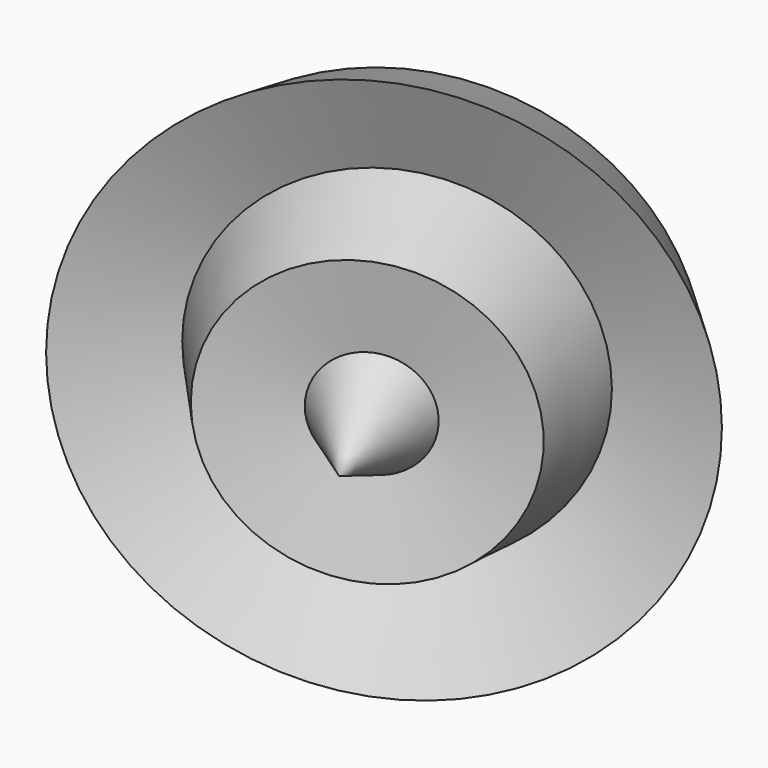
from build123d import *


with BuildPart() as f1:
    # F0 (on Top) → F1 (revolve)
    with BuildSketch(Plane.XY):
        Polygon((-8.3435634151, 50.5607873201), (-47.5501678884, 5.0811255351), (-44.4136410952, -39.8757830262), (-11.4800911397, -2.2374405526), (20.9307018667, -37.7847626805), (54.9097619951, -14.260799624), (98.8211557269, -49.2853671312), (60.137309134, 33.3098806441), (28.2492693514, 0), align=None)
    revolve(axis=Axis((79.4792324305, -7.9877432436, 0), (0.4241401272, -0.9055965727, 0)))


solid = f1.part
